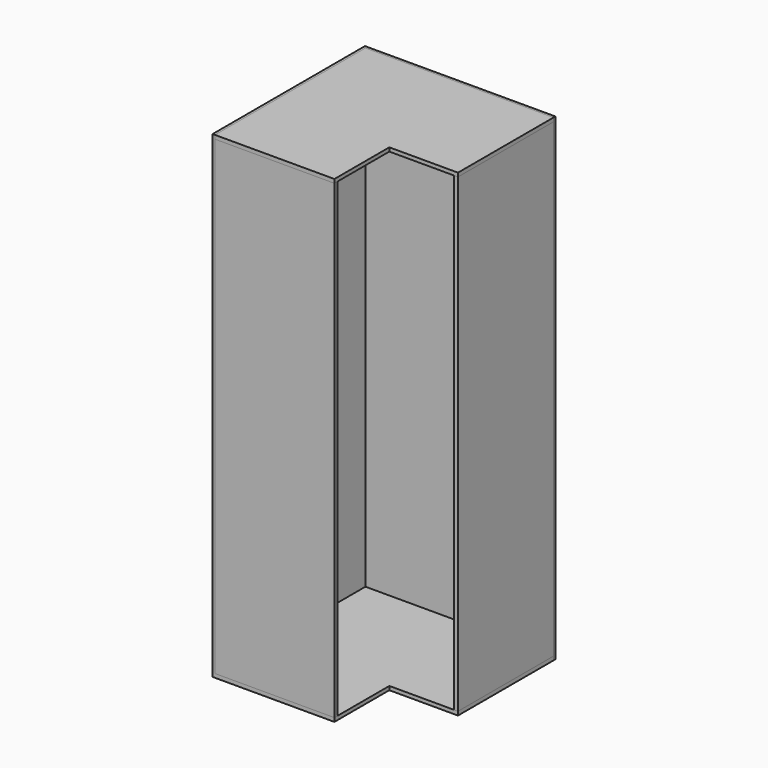
from build123d import *

# Parameters (mm, degrees)
F0_W      = 945
F0_H      = 945
F2_DEPTH  = 19
F5_W      = 345
F5_H      = 345
F6_DEPTH  = 19.001
F7_W      = 600
F7_H      = 19
F8_DEPTH  = 2364
F7_W_2    = 19
F7_H_2    = 600
F9_DEPTH  = 2364
F10_W     = 600
F10_H     = 19
F11_DEPTH = 19
F12_W     = 945
F12_H     = 2383
F12_H_2   = 19
F13_DEPTH = 12
F14_W     = 945
F14_H     = 19
F15_DEPTH = 12


with BuildPart() as f2:
    # F0 (on Top) → F2 (new body)
    with BuildSketch(Plane.XY):
        Rectangle(F0_W, F0_H)
    extrude(amount=F2_DEPTH)

    # F5 (on face) → F6 (cut, through all)
    with BuildSketch(Plane.XY.offset(19)):
        with Locations((300, -300)):
            Rectangle(F5_W, F5_H)
    extrude(amount=-F6_DEPTH, mode=Mode.SUBTRACT)

    # F12 (on face) → F13 (join)
    with BuildSketch(Plane(origin=(-472.5, 0, 0), x_dir=(0, -1, 0), z_dir=(-1, 0, 0))):
        with Locations((0, 1191.5)):
            Rectangle(F12_W, F12_H)
        with Locations((0, 2392.5)):
            Rectangle(F12_W, F12_H_2)
    extrude(amount=F13_DEPTH)


with BuildPart() as f8:
    # F7 (on face) → F8 (new body)
    with BuildSketch(Plane.XY.offset(19)):
        with Locations((-172.5, -463)):
            Rectangle(F7_W, F7_H)
    extrude(amount=F8_DEPTH)


with BuildPart() as f9:
    # F7 (on face) → F9 (new body)
    with BuildSketch(Plane.XY.offset(19)):
        with Locations((463, 172.5)):
            Rectangle(F7_W_2, F7_H_2)
    extrude(amount=F9_DEPTH)


with BuildPart() as f11:
    # F10 (on face) → F11 (new body)
    with BuildSketch(Plane.XY.offset(2383)):
        Polygon((-472.5, 472.5), (-472.5, -453.5), (127.5, -453.5), (127.5, -127.5), (472.5, -127.5), (472.5, 472.5), align=None)
        with Locations((-172.5, -463)):
            Rectangle(F10_W, F10_H)
    extrude(amount=F11_DEPTH)


with BuildPart() as f15:
    # F14 (on face) → F15 (new body)
    with BuildSketch(Plane(origin=(0, 472.5, 0), x_dir=(-1, 0, 0), z_dir=(0, 1, 0))):
        Polygon((484.5, 2402), (472.5, 2402), (472.5, 2383), (-472.5, 2383), (-472.5, 0), (484.5, 0), align=None)
        with Locations((0, 2392.5)):
            Rectangle(F14_W, F14_H)
    extrude(amount=F15_DEPTH)


solid = Compound([f2.part, f8.part, f9.part, f11.part, f15.part])
